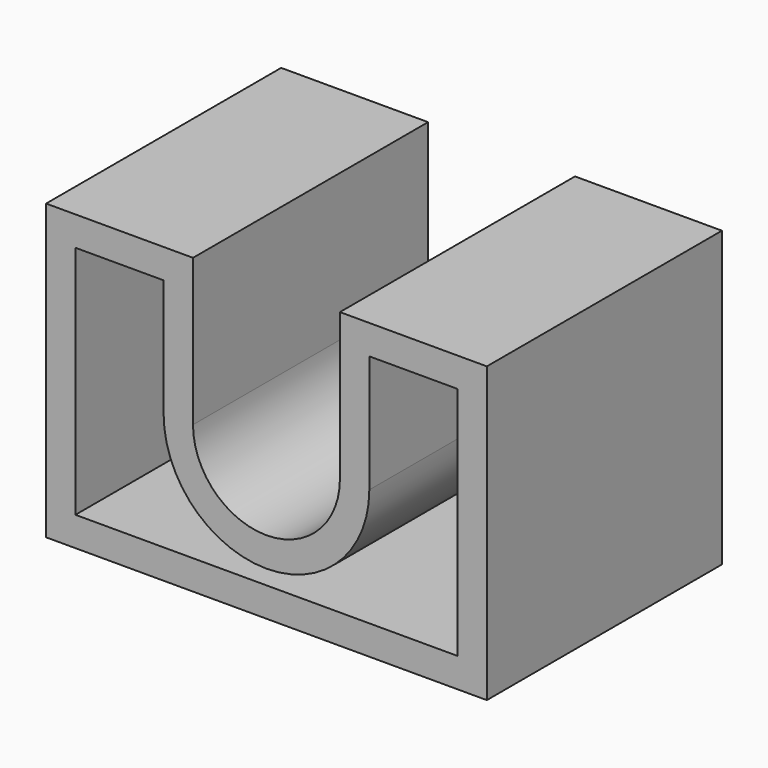
from build123d import *

# Parameters (mm, degrees)
F0_W     = 38.1
F0_H     = 25.4
F0_R     = 6.35
F1_DEPTH = 25.4
F2_W     = 12.7
F2_H     = 25.4
F3_DEPTH = 12.7
F4_T     = -2.54


with BuildPart() as f1:
    # F0 (on Front) → F1 (new body)
    with BuildSketch(Plane.XZ):
        with Locations((19.05, 12.7)):
            Rectangle(F0_W, F0_H)
        with Locations((19.05, 12.7)):
            Circle(F0_R, mode=Mode.SUBTRACT)
    extrude(amount=F1_DEPTH)

    # F2 (on face) → F3 (cut)
    with BuildSketch(Plane.XY.offset(25.4)):
        with Locations((19.05, -12.7)):
            Rectangle(F2_W, F2_H)
    extrude(amount=-F3_DEPTH, mode=Mode.SUBTRACT)

    # F4
    f4_openings = [f1.faces().sort_by_distance(p)[0] for p in [
        (6.35, -25.4, 24.942095),
    ]]
    offset(amount=F4_T, openings=f4_openings)


solid = f1.part
